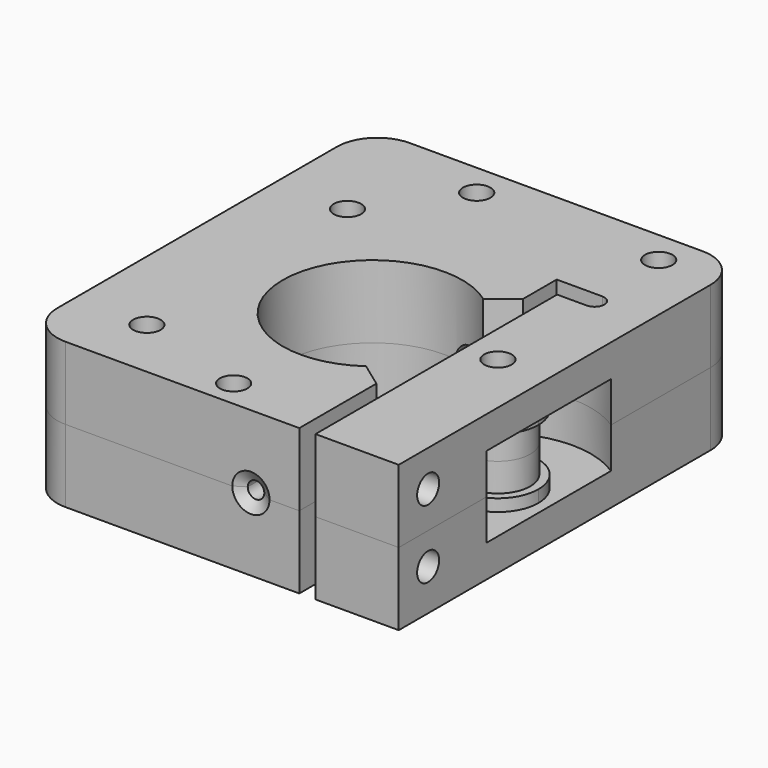
from build123d import *

# Parameters (mm, degrees)
F0_R      = 1.7
F0_R_2    = 1.35
F1_DEPTH  = 9
F2_R      = 1.7
F3_DEPTH  = 9.001
F5_DEPTH  = 5
F4_R      = 4
F6_DEPTH  = 3.5
F11_DEPTH = 9
F13_DEPTH = 9.001
F14_DEPTH = 5
F15_DEPTH = 3.5
F18_R     = 1.4
F19_DEPTH = 20
F18_R_2   = 1.7
F20_DEPTH = 11
F21_DEPTH = 20
F22_DEPTH = 11
F4_R_2    = 1.4
F23_DEPTH = 9.0010001
F4_R_3    = 1.7
F24_DEPTH = 9.0010001
F25_R     = 5
F25_2_R   = 5


with BuildPart() as f1:
    # F0 (on Top) → F1 (new body)
    with BuildSketch(Plane.XY):
        with BuildLine():
            Line((21.7747555523, 35.8522933333), (-24.4267012457, 35.8522933333))
            Line((-24.4267012457, 35.8522933333), (-24.4267012457, -17.3452516382))
            Line((-24.4267012457, -17.3452516382), (9.4824641046, -17.3452516382))
            Line((9.4824641046, -17.3452516382), (9.4824641046, 22.4300473309))
            Line((9.4824641046, 22.4300473309), (15.1353199035, 22.4300473309))
            ThreePointArc((15.1353199035, 22.4300473309), (16.352897448, 21.2124697864), (15.1353199035, 19.9948922419))
            Line((15.1353199035, 19.9948922419), (11.4824641046, 19.9948922419))
            Line((11.4824641046, 19.9948922419), (11.4824641046, -17.3452516382))
            Line((11.4824641046, -17.3452516382), (21.7747555523, -17.3452516382))
            Line((21.7747555523, -17.3452516382), (21.7747555523, 35.8522933333))
        make_face()
        with Locations((-1.3043400832, -14.0073336661)):
            Circle(F0_R, mode=Mode.SUBTRACT)
        with Locations((-7.8875971958, 31.7803174257)):
            Circle(F0_R, mode=Mode.SUBTRACT)
        with Locations((14.6124028042, 31.7803174257)):
            Circle(F0_R, mode=Mode.SUBTRACT)
        with Locations((-7.8875971958, 31.7803174257)):
            Circle(F0_R)
        with Locations((-7.8875971958, 31.7803174257)):
            Circle(F0_R_2, mode=Mode.SUBTRACT)
        with Locations((14.6124028042, 31.7803174257)):
            Circle(F0_R)
        with Locations((14.6124028042, 31.7803174257)):
            Circle(F0_R_2, mode=Mode.SUBTRACT)
        with Locations((-1.3043400832, -14.0073336661)):
            Circle(F0_R)
        with Locations((-1.3043400832, -14.0073336661)):
            Circle(F0_R_2, mode=Mode.SUBTRACT)
    extrude(amount=F1_DEPTH)

    # F2 (on face) → F3 (cut, through all)
    with BuildSketch(Plane.XY.offset(9)):
        with BuildLine():
            ThreePointArc((10.1784989238, 1.3960245172), (10.8671831229, 3.5626460221), (11.1, 5.8241346851))
            ThreePointArc((11.1, 5.8241346851), (10.8946392865, 7.949419329), (10.2861558887, 9.9960643384))
            ThreePointArc((10.2861558887, 9.9960643384), (8.7220710068, 12.6896628769), (6.4711904888, 14.8426541677))
            ThreePointArc((6.4711904888, 14.8426541677), (-11.0999761868, 5.8471271395), (6.433773254, -3.2211160973))
            ThreePointArc((6.433773254, -3.2211160973), (8.6209856508, -1.1679041026), (10.1784989238, 1.3960245172))
        make_face()
        with BuildLine():
            ThreePointArc((6.4711904888, 14.8426541677), (8.7220710068, 12.6896628769), (10.2861558887, 9.9960643384))
            Line((10.2861558887, 9.9960643384), (10.0157056004, 17.6702737808))
            Line((10.0157056004, 17.6702737808), (6.4711904888, 14.8426541677))
        make_face()
        with BuildLine():
            Line((10.1784989238, -5.9347674251), (10.1784989238, 1.3960245172))
            ThreePointArc((10.1784989238, 1.3960245172), (8.6209856508, -1.1679041026), (6.433773254, -3.2211160973))
            Line((6.433773254, -3.2211160973), (10.1784989238, -5.9347674251))
        make_face()
        with Locations((-15.5, 21.3241346851)):
            Circle(F2_R)
        with Locations((-15.5, -9.6758653149)):
            Circle(F2_R)
    extrude(amount=-F3_DEPTH, mode=Mode.SUBTRACT)

    # F4 (on face) → F5 (cut)
    with BuildSketch(Plane.XY.offset(9)):
        with BuildLine():
            Line((21.7747555523, -3.8131596841), (21.7747555523, 15.4614290543))
            ThreePointArc((21.7747555523, 15.4614290543), (16.7639562813, 17.2544633995), (11.4824641046, 16.5995421173))
            Line((11.4824641046, 16.5995421173), (11.4824641046, 8.8006100049))
            ThreePointArc((11.4824641046, 8.8006100049), (17.0672141722, 10.5721700407), (20.5, 5.8241346851))
            ThreePointArc((20.5, 5.8241346851), (17.0672141722, 1.0760993295), (11.4824641046, 2.8476593653))
            Line((11.4824641046, 2.8476593653), (11.4824641046, -4.9512727471))
            ThreePointArc((11.4824641046, -4.9512727471), (16.7639562813, -5.6061940293), (21.7747555523, -3.8131596841))
        make_face()
    extrude(amount=-F5_DEPTH, mode=Mode.SUBTRACT)

    # F4 (on face) → F6 (cut)
    with BuildSketch(Plane.XY.offset(9)):
        with BuildLine():
            ThreePointArc((20.5, 5.8241346851), (17.0672141722, 10.5721700407), (11.4824641046, 8.8006100049))
            Line((11.4824641046, 8.8006100049), (11.4824641046, 2.8476593653))
            ThreePointArc((11.4824641046, 2.8476593653), (17.0672141722, 1.0760993295), (20.5, 5.8241346851))
        make_face()
        with Locations((15.5, 5.8241346851)):
            Circle(F4_R, mode=Mode.SUBTRACT)
    extrude(amount=-F6_DEPTH, mode=Mode.SUBTRACT)


with BuildPart() as f8:
    # F7 (on face) → F8 (revolve)
    with BuildSketch(Plane.XY.offset(9)):
        Polygon((0, 14.7090433165), (3.5, 14.7090433165), (3.5, 37.0899259865), (-2.6, 37.0899259865), (-2.6, 32.8899259865), (-4.7, 32.8899259865), (-4.7, 27.8899259865), (1.7683508271, 27.8899259865), (2.5, 25.7302802056), (2.5, 18.3351747692), align=None)
    revolve(axis=Axis((3.5, 25.8994846515, 9), (0, 1, 0)))


with BuildPart() as f8b:
    # F7 (on face) → F8, piece 2 (revolve)
    with BuildSketch(Plane.XY.offset(9)):
        Polygon((2.4746165145, -16.5539048612), (1.0664474685, -17.4256302416), (0.98, -25.4416566163), (3.5, -25.4416566163), (3.5, -3.0607739463), (1.3130903599, -3.5316427894), (2.5, -8.5617373008), align=None)
    revolve(axis=Axis((3.5, 25.8994846515, 9), (0, 1, 0)))


with BuildPart() as f1_1:
    add(f1.part)

    # F9: cut F8
    add(f8.part, mode=Mode.SUBTRACT)

    # F10: cut F8b
    add(f8b.part, mode=Mode.SUBTRACT)

    # F18 (on face) → F21 (cut)
    with BuildSketch(Plane.YZ.offset(21.7747555523)):
        with Locations((-12.805685401, 5.0852382556)):
            Circle(F18_R)
    extrude(amount=-F21_DEPTH, mode=Mode.SUBTRACT)

    # F18 (on face) → F22 (cut)
    with BuildSketch(Plane.YZ.offset(21.7747555523)):
        with Locations((-12.805685401, 5.0852382556)):
            Circle(F18_R_2)
        with Locations((-12.805685401, 5.0852382556)):
            Circle(F18_R, mode=Mode.SUBTRACT)
    extrude(amount=-F22_DEPTH, mode=Mode.SUBTRACT)

    # F4 (on face) → F23 (cut, through all)
    with BuildSketch(Plane.XY.offset(9)):
        with Locations((15.5, 5.8241346851)):
            Circle(F4_R_2)
    extrude(amount=-F23_DEPTH, mode=Mode.SUBTRACT)

    # F25#2
    f25_2_edges = [f1_1.edges().sort_by_distance(p)[0] for p in [
        (21.774756, 35.852293, 4.5),
        (-24.426701, 35.852293, 4.5),
        (-24.426701, -17.345252, 4.5),
    ]]
    fillet(f25_2_edges, radius=F25_2_R)


with BuildPart() as f11:
    # F0 (on Top) → F11 (new body)
    with BuildSketch(Plane.XY):
        with BuildLine():
            Line((21.7747555523, 35.8522933333), (-24.4267012457, 35.8522933333))
            Line((-24.4267012457, 35.8522933333), (-24.4267012457, -17.3452516382))
            Line((-24.4267012457, -17.3452516382), (9.4824641046, -17.3452516382))
            Line((9.4824641046, -17.3452516382), (9.4824641046, 22.4300473309))
            Line((9.4824641046, 22.4300473309), (15.1353199035, 22.4300473309))
            ThreePointArc((15.1353199035, 22.4300473309), (16.352897448, 21.2124697864), (15.1353199035, 19.9948922419))
            Line((15.1353199035, 19.9948922419), (11.4824641046, 19.9948922419))
            Line((11.4824641046, 19.9948922419), (11.4824641046, -17.3452516382))
            Line((11.4824641046, -17.3452516382), (21.7747555523, -17.3452516382))
            Line((21.7747555523, -17.3452516382), (21.7747555523, 35.8522933333))
        make_face()
        with Locations((-1.3043400832, -14.0073336661)):
            Circle(F0_R, mode=Mode.SUBTRACT)
        with Locations((-7.8875971958, 31.7803174257)):
            Circle(F0_R, mode=Mode.SUBTRACT)
        with Locations((14.6124028042, 31.7803174257)):
            Circle(F0_R, mode=Mode.SUBTRACT)
    extrude(amount=-F11_DEPTH)


with BuildPart() as f11_1:
    # F12: moved
    add(f11.part.moved(Location((0, 0, 18))))


with BuildPart() as f13_tool:
    # F2 (on face) → F13 (new body, through all)
    with BuildSketch(Plane.XY.offset(9)):
        with BuildLine():
            ThreePointArc((10.1784989238, 1.3960245172), (10.8671831229, 3.5626460221), (11.1, 5.8241346851))
            ThreePointArc((11.1, 5.8241346851), (10.8946392865, 7.949419329), (10.2861558887, 9.9960643384))
            ThreePointArc((10.2861558887, 9.9960643384), (8.7220710068, 12.6896628769), (6.4711904888, 14.8426541677))
            ThreePointArc((6.4711904888, 14.8426541677), (-11.0999761868, 5.8471271395), (6.433773254, -3.2211160973))
            ThreePointArc((6.433773254, -3.2211160973), (8.6209856508, -1.1679041026), (10.1784989238, 1.3960245172))
        make_face()
        with BuildLine():
            ThreePointArc((6.4711904888, 14.8426541677), (8.7220710068, 12.6896628769), (10.2861558887, 9.9960643384))
            Line((10.2861558887, 9.9960643384), (10.0157056004, 17.6702737808))
            Line((10.0157056004, 17.6702737808), (6.4711904888, 14.8426541677))
        make_face()
        with BuildLine():
            Line((10.1784989238, -5.9347674251), (10.1784989238, 1.3960245172))
            ThreePointArc((10.1784989238, 1.3960245172), (8.6209856508, -1.1679041026), (6.433773254, -3.2211160973))
            Line((6.433773254, -3.2211160973), (10.1784989238, -5.9347674251))
        make_face()
        with Locations((-15.5, 21.3241346851)):
            Circle(F2_R)
        with Locations((-15.5, -9.6758653149)):
            Circle(F2_R)
    extrude(amount=F13_DEPTH)


with BuildPart() as f8_1:
    add(f8.part)

    # F13: cut by f13_tool
    add(f13_tool.part, mode=Mode.SUBTRACT)


with BuildPart() as f8b_1:
    add(f8b.part)

    # F13: cut by f13_tool
    add(f13_tool.part, mode=Mode.SUBTRACT)


with BuildPart() as f11_2:
    add(f11_1.part)

    # F13: cut by f13_tool
    add(f13_tool.part, mode=Mode.SUBTRACT)

    # F4 (on face) → F14 (cut)
    with BuildSketch(Plane.XY.offset(9)):
        with BuildLine():
            Line((21.7747555523, -3.8131596841), (21.7747555523, 15.4614290543))
            ThreePointArc((21.7747555523, 15.4614290543), (16.7639562813, 17.2544633995), (11.4824641046, 16.5995421173))
            Line((11.4824641046, 16.5995421173), (11.4824641046, 8.8006100049))
            ThreePointArc((11.4824641046, 8.8006100049), (17.0672141722, 10.5721700407), (20.5, 5.8241346851))
            ThreePointArc((20.5, 5.8241346851), (17.0672141722, 1.0760993295), (11.4824641046, 2.8476593653))
            Line((11.4824641046, 2.8476593653), (11.4824641046, -4.9512727471))
            ThreePointArc((11.4824641046, -4.9512727471), (16.7639562813, -5.6061940293), (21.7747555523, -3.8131596841))
        make_face()
    extrude(amount=F14_DEPTH, mode=Mode.SUBTRACT)

    # F4 (on face) → F15 (cut)
    with BuildSketch(Plane.XY.offset(9)):
        with BuildLine():
            ThreePointArc((20.5, 5.8241346851), (17.0672141722, 10.5721700407), (11.4824641046, 8.8006100049))
            Line((11.4824641046, 8.8006100049), (11.4824641046, 2.8476593653))
            ThreePointArc((11.4824641046, 2.8476593653), (17.0672141722, 1.0760993295), (20.5, 5.8241346851))
        make_face()
        with Locations((15.5, 5.8241346851)):
            Circle(F4_R, mode=Mode.SUBTRACT)
    extrude(amount=F15_DEPTH, mode=Mode.SUBTRACT)

    # F16: cut F8
    add(f8_1.part, mode=Mode.SUBTRACT)

    # F17: cut F8b
    add(f8b_1.part, mode=Mode.SUBTRACT)

    # F18 (on face) → F19 (cut)
    with BuildSketch(Plane.YZ.offset(21.7747555523)):
        with Locations((-12.805685401, 13.5170314461)):
            Circle(F18_R)
    extrude(amount=-F19_DEPTH, mode=Mode.SUBTRACT)

    # F18 (on face) → F20 (cut)
    with BuildSketch(Plane.YZ.offset(21.7747555523)):
        with Locations((-12.805685401, 13.5170314461)):
            Circle(F18_R_2)
        with Locations((-12.805685401, 13.5170314461)):
            Circle(F18_R, mode=Mode.SUBTRACT)
    extrude(amount=-F20_DEPTH, mode=Mode.SUBTRACT)

    # F4 (on face) → F24 (cut, through all)
    with BuildSketch(Plane.XY.offset(9)):
        with Locations((15.5, 5.8241346851)):
            Circle(F4_R_3)
        with Locations((15.5, 5.8241346851)):
            Circle(F4_R_2, mode=Mode.SUBTRACT)
        with Locations((15.5, 5.8241346851)):
            Circle(F4_R_2)
    extrude(amount=F24_DEPTH, mode=Mode.SUBTRACT)

    # F25
    f25_edges = [f11_2.edges().sort_by_distance(p)[0] for p in [
        (21.774756, 35.852293, 13.5),
        (-24.426701, 35.852293, 13.5),
        (-24.426701, -17.345252, 13.5),
    ]]
    fillet(f25_edges, radius=F25_R)


solid = Compound([f1_1.part, f11_2.part])
